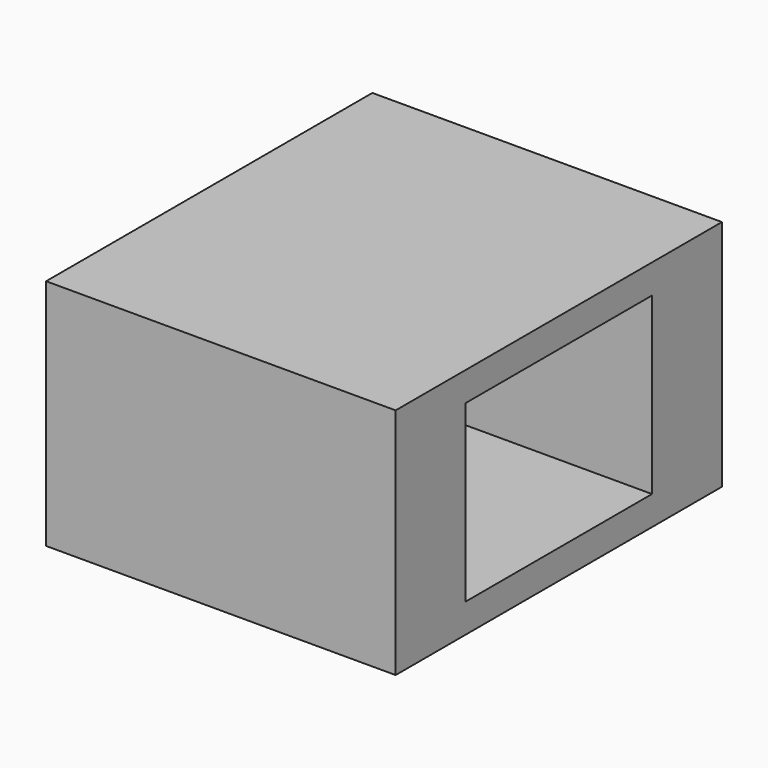
from build123d import *

# Parameters (mm, degrees)
F0_W     = 70
F0_H     = 40
F1_DEPTH = 60
F2_W     = 40
F2_H     = 30
F3_DEPTH = 50
F4_W     = 59
F4_H     = 29
F5_DEPTH = 2.5


with BuildPart() as f1:
    # F0 (on Right) → F1 (new body)
    with BuildSketch(Plane.YZ):
        with Locations((35, 20)):
            Rectangle(F0_W, F0_H)
    extrude(amount=F1_DEPTH)

    # F2 (on face) → F3 (cut)
    with BuildSketch(Plane.YZ.offset(60)):
        with Locations((35, 20)):
            Rectangle(F2_W, F2_H)
    extrude(amount=-F3_DEPTH, mode=Mode.SUBTRACT)

    # F4 (on face) → F5 (join)
    with BuildSketch(Plane(origin=(0, 0, 0), x_dir=(0, -1, 0), z_dir=(-1, 0, 0))):
        with Locations((-35, 20)):
            Rectangle(F4_W, F4_H)
    extrude(amount=F5_DEPTH)


solid = f1.part
